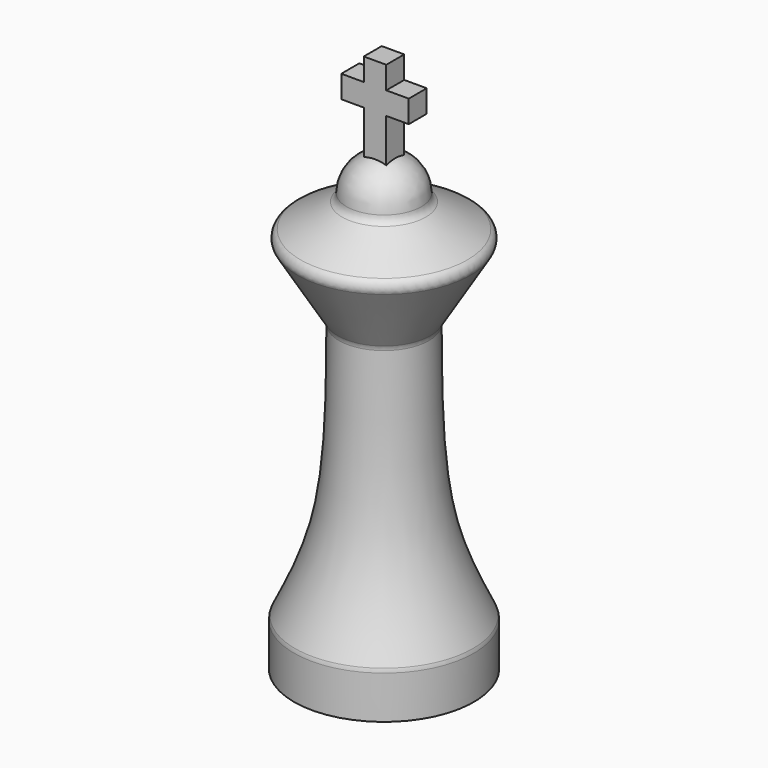
from build123d import *

# Parameters (mm, degrees)
F0_W     = 5
F0_H     = 20
F1_DEPTH = 2.5
F2_W     = 15
F2_H     = 5
F3_DEPTH = 2.5
F6_DEPTH = 2.5
F7_DEPTH = 5
F8_R     = 2


with BuildPart() as f1:
    # F0 (on Front) → F1 (new body)
    with BuildSketch(Plane.XZ):
        with Locations((0, 110)):
            Rectangle(F0_W, F0_H)
        with Locations((0, 110)):
            Rectangle(F0_W, F0_H)
    extrude(amount=F1_DEPTH)

    # F2 (on face) → F3 (join)
    with BuildSketch(Plane.XZ.offset(2.5)):
        with Locations((0, 112.5)):
            Rectangle(F2_W, F2_H)
    extrude(amount=-F3_DEPTH)

    # F4 (on Front) → F5 (revolve)
    with BuildSketch(Plane.XZ):
        with BuildLine():
            ThreePointArc((0, 101), (-6.2047476742, 98.408443436), (-8.2411444559, 92))
            Line((-8.2411444559, 92), (-20.3046236384, 85))
            Line((-20.3046236384, 85), (-10, 68))
            add(Edge.make_bspline(
                [(-10, 68), (-10.0457358367, 54.4372630993), (-10.1262334968, 30.5660788152), (-17.0221094404, 16.2026514332), (-20, 10)],
                knots=[0, 0, 0, 0, 0.568163554, 1, 1, 1, 1], degree=3))
            Line((-20, 10), (-20, 0))
            Line((-20, 0), (0, 0))
            Line((0, 0), (0, 101))
        make_face()
    revolve(axis=Axis((0, 0, 50.5), (0, 0, -1)))

    # F0 (on Front) → F6 (join)
    with BuildSketch(Plane.XZ):
        with Locations((0, 110)):
            Rectangle(F0_W, F0_H)
    extrude(amount=-F6_DEPTH)

    # F2 (on face) → F7 (join)
    with BuildSketch(Plane.XZ.offset(2.5)):
        with Locations((0, 112.5)):
            Rectangle(F2_W, F2_H)
    extrude(amount=-F7_DEPTH)

    # F8
    f8_edges = [f1.edges().sort_by_distance(p)[0] for p in [
        (20.304624, 0, 85),
        (20, 0, 10),
        (10, 0, 68),
        (8.241144, 0, 92),
    ]]
    fillet(f8_edges, radius=F8_R)


solid = f1.part
